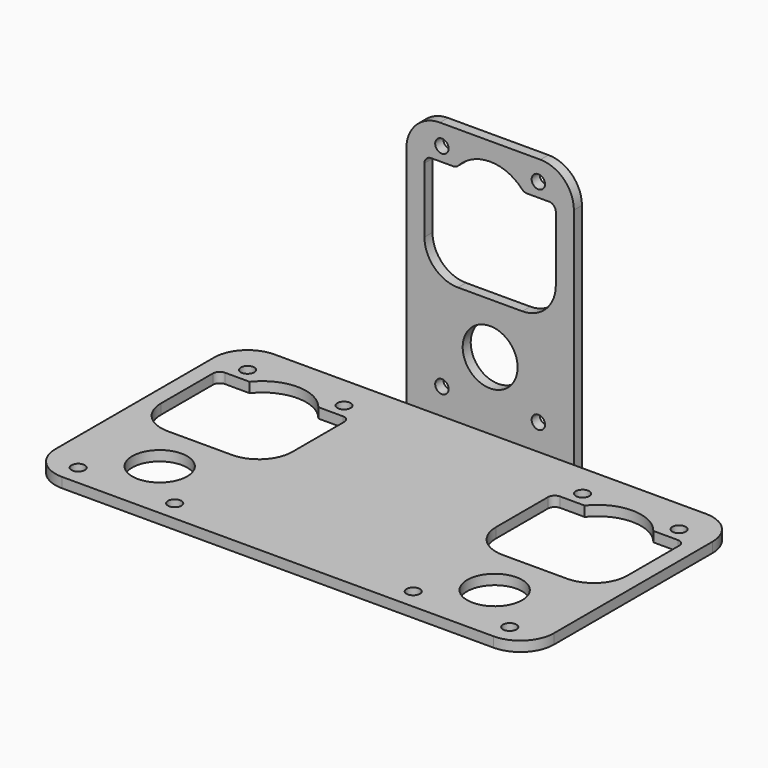
from build123d import *

# Parameters (mm, degrees)
F0_W     = 74.4
F0_H     = 39.6
F0_R     = 1
F0_R_2   = 4.1
F1_DEPTH = 1.5
F2_W     = 25
F2_H     = 1.5
F3_DEPTH = 40
F4_R     = 1
F4_R_2   = 4.1
F5_DEPTH = 1.5
F6_R     = 5


with BuildPart() as f1:
    # F0 (on Top) → F1 (new body)
    with BuildSketch(Plane.XY):
        Rectangle(F0_W, F0_H)
        with Locations((-32.2, -16.8)):
            Circle(F0_R, mode=Mode.SUBTRACT)
        with Locations((-25, -10.6)):
            Circle(F0_R_2, mode=Mode.SUBTRACT)
        with Locations((-17.8, -16.8)):
            Circle(F0_R, mode=Mode.SUBTRACT)
        with Locations((17.8, -16.8)):
            Circle(F0_R, mode=Mode.SUBTRACT)
        with Locations((32.2, -16.8)):
            Circle(F0_R, mode=Mode.SUBTRACT)
        with Locations((25, -10.6)):
            Circle(F0_R_2, mode=Mode.SUBTRACT)
        with BuildLine():
            ThreePointArc((-34.8, 11.6), (-34.507107, 12.307107), (-33.8, 12.6))
            Line((-33.8, 12.6), (-30.123475, 12.6))
            ThreePointArc((-30.123475, 12.6), (-25, 15.1), (-19.876525, 12.6))
            Line((-19.876525, 12.6), (-16.2, 12.6))
            ThreePointArc((-16.2, 12.6), (-15.492893, 12.307107), (-15.2, 11.6))
            Line((-15.2, 11.6), (-15.2, 1.9))
            ThreePointArc((-15.2, 1.9), (-16.664466, -1.635534), (-20.2, -3.1))
            Line((-20.2, -3.1), (-29.8, -3.1))
            ThreePointArc((-29.8, -3.1), (-33.335534, -1.635534), (-34.8, 1.9))
            Line((-34.8, 1.9), (-34.8, 11.6))
        make_face(mode=Mode.SUBTRACT)
        with Locations((-32.2, 14.8)):
            Circle(F0_R, mode=Mode.SUBTRACT)
        with Locations((-17.8, 14.8)):
            Circle(F0_R, mode=Mode.SUBTRACT)
        with BuildLine():
            Line((15.2, 1.9), (15.2, 11.6))
            ThreePointArc((15.2, 11.6), (15.492893, 12.307107), (16.2, 12.6))
            Line((16.2, 12.6), (19.876525, 12.6))
            ThreePointArc((19.876525, 12.6), (25, 15.1), (30.123475, 12.6))
            Line((30.123475, 12.6), (33.8, 12.6))
            ThreePointArc((33.8, 12.6), (34.507107, 12.307107), (34.8, 11.6))
            Line((34.8, 11.6), (34.8, 1.9))
            ThreePointArc((34.8, 1.9), (33.335534, -1.635534), (29.8, -3.1))
            Line((29.8, -3.1), (20.2, -3.1))
            ThreePointArc((20.2, -3.1), (16.664466, -1.635534), (15.2, 1.9))
        make_face(mode=Mode.SUBTRACT)
        with Locations((17.8, 14.8)):
            Circle(F0_R, mode=Mode.SUBTRACT)
        with Locations((32.2, 14.8)):
            Circle(F0_R, mode=Mode.SUBTRACT)
    extrude(amount=F1_DEPTH)

    # F2 (on Top) → F3 (join)
    with BuildSketch(Plane.XY):
        with Locations((0, 20.55)):
            Rectangle(F2_W, F2_H)
    extrude(amount=F3_DEPTH)

    # F4 (on face) → F5 (cut, through all)
    with BuildSketch(Plane(origin=(0, 21.3, 0), x_dir=(-1, 0, 0), z_dir=(0, 1, 0))):
        with Locations((7.2, 37)):
            Circle(F4_R)
        with Locations((7.2, 5.4)):
            Circle(F4_R)
        with Locations((0, 11.6)):
            Circle(F4_R_2)
        with BuildLine():
            ThreePointArc((9.8, 33.9), (9.507107, 34.607107), (8.8, 34.9))
            Line((8.8, 34.9), (5.499091, 34.9))
            ThreePointArc((5.499091, 34.9), (5.099091, 34.983485), (4.765879, 35.22))
            ThreePointArc((4.765879, 35.22), (0, 37.3), (-4.765879, 35.22))
            ThreePointArc((-4.765879, 35.22), (-5.099091, 34.983485), (-5.499091, 34.9))
            Line((-5.499091, 34.9), (-8.8, 34.9))
            ThreePointArc((-8.8, 34.9), (-9.507107, 34.607107), (-9.8, 33.9))
            Line((-9.8, 33.9), (-9.8, 24.2))
            ThreePointArc((-9.8, 24.2), (-8.335534, 20.664466), (-4.8, 19.2))
            Line((-4.8, 19.2), (4.8, 19.2))
            ThreePointArc((4.8, 19.2), (8.335534, 20.664466), (9.8, 24.2))
            Line((9.8, 24.2), (9.8, 33.9))
        make_face()
        with Locations((-7.2, 37)):
            Circle(F4_R)
        with Locations((-7.2, 5.4)):
            Circle(F4_R)
    extrude(amount=-F5_DEPTH, mode=Mode.SUBTRACT)

    # F6
    f6_edges = [f1.edges().sort_by_distance(p)[0] for p in [
        (-37.2, 19.8, 0.75),
        (-37.2, -19.8, 0.75),
        (37.2, 19.8, 0.75),
        (37.2, -19.8, 0.75),
        (-12.5, 20.55, 40),
        (12.5, 20.55, 40),
    ]]
    fillet(f6_edges, radius=F6_R)


solid = f1.part
